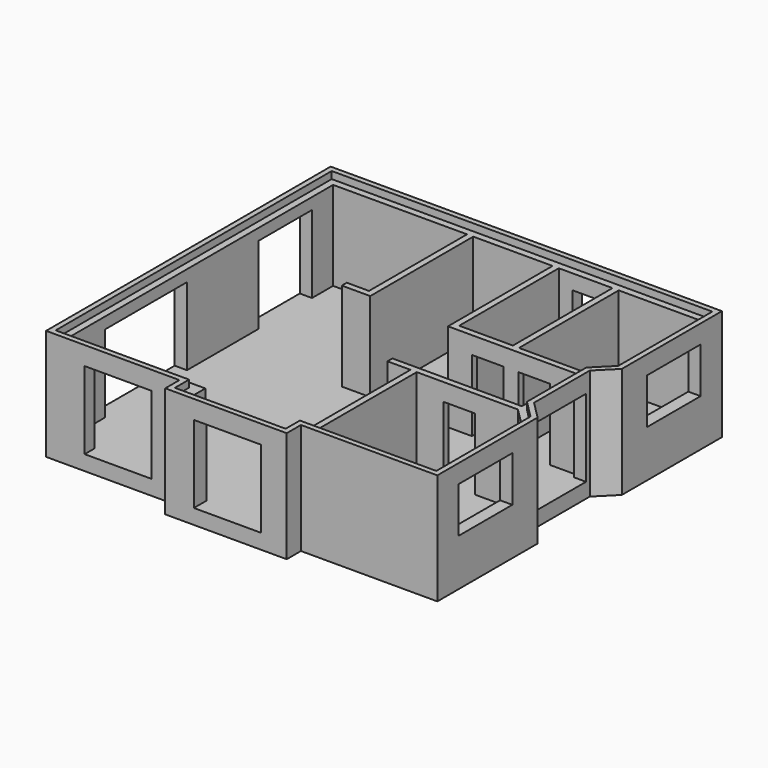
from build123d import *

# Parameters (mm, degrees)
F0_W      = 1510
F0_H      = 3500
F1_DEPTH  = 2500
F3_DEPTH  = 420
F4_W      = 1705
F4_H      = 2180
F5_DEPTH  = 345
F6_W      = 885
F6_H      = 2010
F7_DEPTH  = 175
F8_W      = 885
F8_H      = 2010
F9_DEPTH  = 175
F10_W     = 1885
F10_H     = 2180
F10_W_2   = 2885
F11_DEPTH = 345
F12_W     = 1885
F12_H     = 2180
F13_DEPTH = 345
F14_W     = 1885
F14_H     = 2180
F15_DEPTH = 450
F16_W     = 1885
F16_H     = 1280
F17_DEPTH = 345
F18_W     = 1130
F18_H     = 780
F19_DEPTH = 345
F21_DEPTH = 200


with BuildPart() as f1:
    # F0 (on Top) → F1 (new body)
    with BuildSketch(Plane.XY):
        Polygon((0, 0), (0, -10000), (3750, -10000), (3750, -10500), (7165, -10500), (7165, -10000), (11000, -10000), (11000, -6477.096321), (10500, -5977.096321), (10500, -4017.903679), (11000, -3517.903679), (11000, 0), align=None)
        Polygon((10655, -6620), (10655, -9655), (7340, -9655), (7340, -6150), (10185, -6150), align=None, mode=Mode.SUBTRACT)
        Polygon((345, -9655), (345, -345), (4110, -345), (4110, -3790), (3485, -3790), (3485, -3965), (4285, -3965), (4285, -345), (6515, -345), (6515, -4020), (10155, -4020), (10155, -5975), (6515, -5975), (6515, -6150), (7165, -6150), (7165, -9655), (6800, -9655), (6800, -10050), (4200, -10050), (4200, -9655), align=None, mode=Mode.SUBTRACT)
        with Locations((7445, -2095)):
            Rectangle(F0_W, F0_H, mode=Mode.SUBTRACT)
        Polygon((10655, -3375), (10180, -3850), (8375, -3850), (8375, -345), (10655, -345), align=None, mode=Mode.SUBTRACT)
    extrude(amount=F1_DEPTH)

    # F2 (on face) → F3 (join)
    with BuildSketch(Plane(origin=(0, 0, 0), x_dir=(1, 0, 0), z_dir=(0, 0, -1))):
        Polygon((3750, 10000), (0, 10000), (0, 0), (11000, 0), (11000, 3517.903679), (10500, 4017.903679), (10500, 5977.096321), (11000, 6477.096321), (11000, 10000), (7165, 10000), (7165, 10500), (3750, 10500), align=None)
    extrude(amount=F3_DEPTH)

    # F4 (on face) → F5 (cut, through all)
    with BuildSketch(Plane.YZ.offset(10500)):
        with Locations((-5002.5, 1090)):
            Rectangle(F4_W, F4_H)
    extrude(amount=-F5_DEPTH, mode=Mode.SUBTRACT)

    # F6 (on face) → F7 (cut, through all)
    with BuildSketch(Plane.XZ.offset(4020)):
        with Locations((7632.5, 1005)):
            Rectangle(F6_W, F6_H)
        with Locations((8942.5, 1005)):
            Rectangle(F6_W, F6_H)
    extrude(amount=-F7_DEPTH, mode=Mode.SUBTRACT)

    # F8 (on face) → F9 (cut, through all)
    with BuildSketch(Plane(origin=(0, -5975, 0), x_dir=(-1, 0, 0), z_dir=(0, 1, 0))):
        with Locations((-8532.5, 1005)):
            Rectangle(F8_W, F8_H)
    extrude(amount=-F9_DEPTH, mode=Mode.SUBTRACT)

    # F10 (on face) → F11 (cut, through all)
    with BuildSketch(Plane(origin=(0, 0, 0), x_dir=(0, -1, 0), z_dir=(-1, 0, 0))):
        with Locations((2027.5, 1090)):
            Rectangle(F10_W, F10_H)
        with Locations((6922.5, 1090)):
            Rectangle(F10_W_2, F10_H)
    extrude(amount=-F11_DEPTH, mode=Mode.SUBTRACT)

    # F12 (on face) → F13 (cut, through all)
    with BuildSketch(Plane.XZ.offset(10000)):
        with Locations((2027.5, 1090)):
            Rectangle(F12_W, F12_H)
    extrude(amount=-F13_DEPTH, mode=Mode.SUBTRACT)

    # F14 (on face) → F15 (cut, through all)
    with BuildSketch(Plane.XZ.offset(10500)):
        with Locations((5497.5, 1090)):
            Rectangle(F14_W, F14_H)
    extrude(amount=-F15_DEPTH, mode=Mode.SUBTRACT)

    # F16 (on face) → F17 (cut, through all)
    with BuildSketch(Plane.YZ.offset(11000)):
        with Locations((-8307.5, 1540)):
            Rectangle(F16_W, F16_H)
        with Locations((-1692.5, 1540)):
            Rectangle(F16_W, F16_H)
    extrude(amount=-F17_DEPTH, mode=Mode.SUBTRACT)

    # F18 (on face) → F19 (cut, through all)
    with BuildSketch(Plane(origin=(0, 0, 0), x_dir=(-1, 0, 0), z_dir=(0, 1, 0))):
        with Locations((-7635, 1690)):
            Rectangle(F18_W, F18_H)
    extrude(amount=-F19_DEPTH, mode=Mode.SUBTRACT)

    # F20 (on face) → F21 (join)
    with BuildSketch(Plane.XY.offset(2500)):
        Polygon((0, 0), (0, -10000), (3750, -10000), (3750, -10500), (7165, -10500), (7165, -10000), (11000, -10000), (11000, -6477.096321), (10500, -5977.096321), (10500, -4017.903679), (11000, -3517.903679), (11000, 0), align=None)
        Polygon((3900, -9850), (150, -9850), (150, -150), (10850, -150), (10850, -3455.771645), (10350, -3955.771645), (10350, -6039.228355), (10850, -6539.228355), (10850, -9850), (7015, -9850), (7015, -10350), (3900, -10350), align=None, mode=Mode.SUBTRACT)
    extrude(amount=F21_DEPTH)


solid = f1.part
